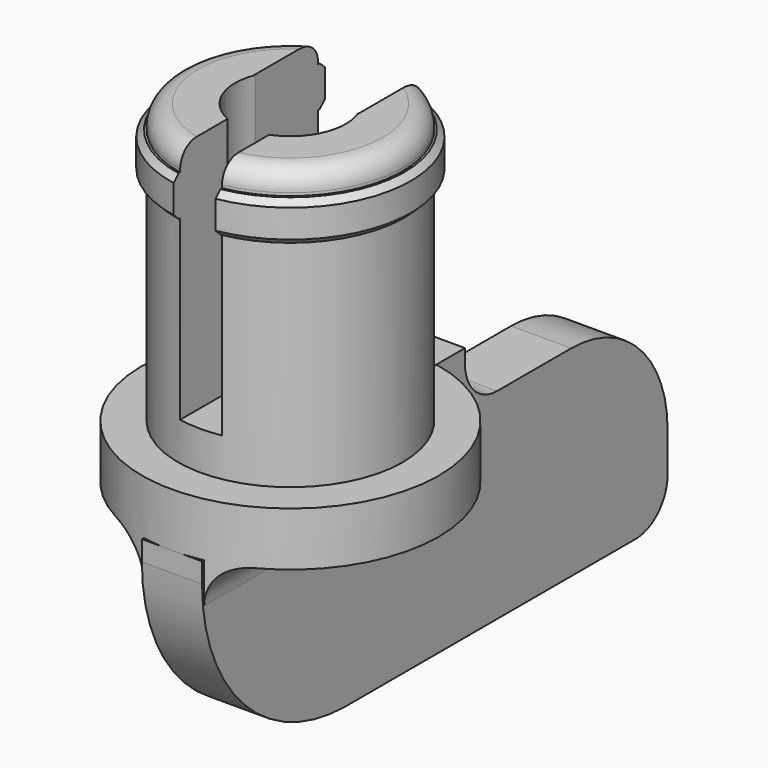
from build123d import *

# Parameters (mm, degrees)
BOX_W             = 5.2
BOX_H             = 5
BOX_DEPTH         = 13
BOX003_W          = 2.1
BOX003_H          = 5
BOX003_DEPTH      = 13
CYLINDER003_R     = 2.76
CYLINDER003_DEPTH = 13.6
CYLINDER002_R     = 6
CYLINDER002_DEPTH = 2
CYLINDER001_R     = 7.4
CYLINDER001_DEPTH = 2.68
CYLINDER_R        = 5.6
CYLINDER_DEPTH    = 16.6
BOX002_W          = 3
BOX002_H          = 2
BOX002_DEPTH      = 4
BOX001_W          = 3
BOX001_H          = 29
BOX001_DEPTH      = 10
FILLET_1_R        = 9
FILLET_2_R        = 6
FILLET_3_R        = 2
FILLET001_R       = 2
FILLET002_R       = 2
FILLET003_R       = 1
CHAMFER_SIZE      = 0.3


with BuildPart() as box:
    # Box → Box (new body)
    with BuildSketch(Plane(origin=(-2.6, 1, 4.6), x_dir=(1, 0, 0), z_dir=(0, 0, 1))):
        with Locations((2.6, 2.5)):
            Rectangle(BOX_W, BOX_H)
    extrude(amount=BOX_DEPTH)


with BuildPart() as box003:
    # Box003 → Box003 (new body)
    with BuildSketch(Plane(origin=(-1.1, -7, 4.6), x_dir=(1, 0, 0), z_dir=(0, 0, 1))):
        with Locations((1.05, 2.5)):
            Rectangle(BOX003_W, BOX003_H)
    extrude(amount=BOX003_DEPTH)


with BuildPart() as fusion001:
    # Cylinder003 → Cylinder003 (new body)
    with BuildSketch(Plane.XY.offset(4.6)):
        Circle(CYLINDER003_R)
    extrude(amount=CYLINDER003_DEPTH)

    # Fusion001: union Box, Box003
    add(box.part)
    add(box003.part)


with BuildPart() as cylinder002:
    # Cylinder002 → Cylinder002 (new body)
    with BuildSketch(Plane.XY.offset(13.45)):
        Circle(CYLINDER002_R)
    extrude(amount=CYLINDER002_DEPTH)


with BuildPart() as base:
    # Cylinder001 → Cylinder001 (new body)
    with BuildSketch(Plane.XY):
        Circle(CYLINDER001_R)
    extrude(amount=CYLINDER001_DEPTH)


with BuildPart() as cut:
    # Cylinder → Cylinder (new body)
    with BuildSketch(Plane.XY):
        Circle(CYLINDER_R)
    extrude(amount=CYLINDER_DEPTH)

    # Fusion: union Cylinder002, base
    add(cylinder002.part)
    add(base.part)

    # Cut: cut Fusion001
    add(fusion001.part, mode=Mode.SUBTRACT)


with BuildPart() as obj1:
    # Box002 → Box002 (new body)
    with BuildSketch(Plane(origin=(-1.5, 7, -1.3), x_dir=(1, 0, 0), z_dir=(0, 0, 1))):
        with Locations((1.5, 1)):
            Rectangle(BOX002_W, BOX002_H)
    extrude(amount=BOX002_DEPTH)


with BuildPart() as chamfer_body:
    # Box001 → Box001 (new body)
    with BuildSketch(Plane(origin=(-1.5, -7.38, -10), x_dir=(1, 0, 0), z_dir=(0, 0, 1))):
        with Locations((1.5, 14.5)):
            Rectangle(BOX001_W, BOX001_H)
    extrude(amount=BOX001_DEPTH)

    # Fillet 1
    fillet_1_edges = [chamfer_body.edges().sort_by_distance(p)[0] for p in [
        (0, -7.38, -10),
    ]]
    fillet(fillet_1_edges, radius=FILLET_1_R)

    # Fillet 2
    fillet_2_edges = [chamfer_body.edges().sort_by_distance(p)[0] for p in [
        (0, 21.62, 0),
    ]]
    fillet(fillet_2_edges, radius=FILLET_2_R)

    # Fillet 3
    fillet_3_edges = [chamfer_body.edges().sort_by_distance(p)[0] for p in [
        (0, 21.62, -10),
    ]]
    fillet(fillet_3_edges, radius=FILLET_3_R)

    # Fusion002: union obj1
    add(obj1.part)

    # Fillet001
    fillet001_edges = [chamfer_body.edges().sort_by_distance(p)[0] for p in [
        (0, 9, 0),
    ]]
    fillet(fillet001_edges, radius=FILLET001_R)

    # Fusion003: union Cut
    add(cut.part)

    # Fillet002
    fillet002_edges = [chamfer_body.edges().sort_by_distance(p)[0] for p in [
        (1.5, 0, 0),
        (-1.5, 0, 0),
    ]]
    fillet(fillet002_edges, radius=FILLET002_R)

    # Fillet003
    fillet003_edges = [chamfer_body.edges().sort_by_distance(p)[0] for p in [
        (4.298837, -3.588872, 16.6),
        (4.791659, 2.898275, 16.6),
        (-5.543193, -0.795617, 16.6),
    ]]
    fillet(fillet003_edges, radius=FILLET003_R)

    # Chamfer
    chamfer_edges = [chamfer_body.edges().sort_by_distance(p)[0] for p in [
        (4.582576, -3.872983, 15.45),
        (4.582576, -3.872983, 13.45),
        (-5.947878, -0.789143, 13.45),
        (-5.947878, -0.789143, 15.45),
    ]]
    chamfer(chamfer_edges, length=CHAMFER_SIZE)


solid = chamfer_body.part
